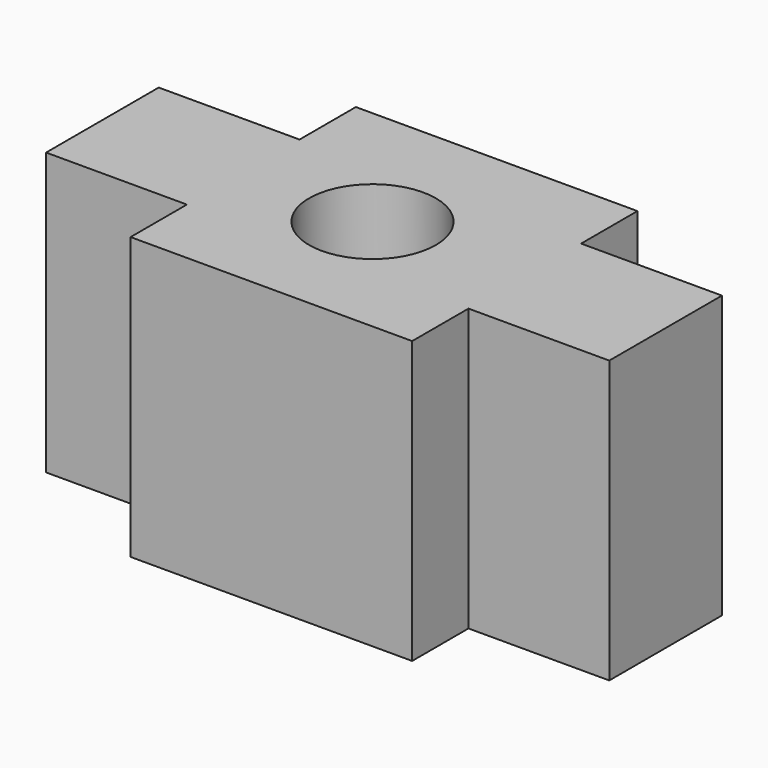
from build123d import *

# Parameters (mm, degrees)
F0_W     = 50.8
F0_H     = 25.4
F1_DEPTH = 25.4
F2_R     = 5.715
F2_W     = 12.7
F2_H     = 6.35
F3_DEPTH = 25.4


with BuildPart() as f1:
    # F0 (on Front) → F1 (new body)
    with BuildSketch(Plane.XZ):
        with Locations((25.4, 12.7)):
            Rectangle(F0_W, F0_H)
    extrude(amount=-F1_DEPTH)

    # F2 (on face) → F3 (cut)
    with BuildSketch(Plane.XY.offset(25.4)):
        with Locations((24.534952, 12.483366)):
            Circle(F2_R)
        with Locations((6.35, 22.225)):
            Rectangle(F2_W, F2_H)
        with Locations((44.45, 22.225)):
            Rectangle(F2_W, F2_H)
        with Locations((6.35, 3.175)):
            Rectangle(F2_W, F2_H)
        with Locations((44.45, 3.175)):
            Rectangle(F2_W, F2_H)
    extrude(amount=-F3_DEPTH, mode=Mode.SUBTRACT)


solid = f1.part
